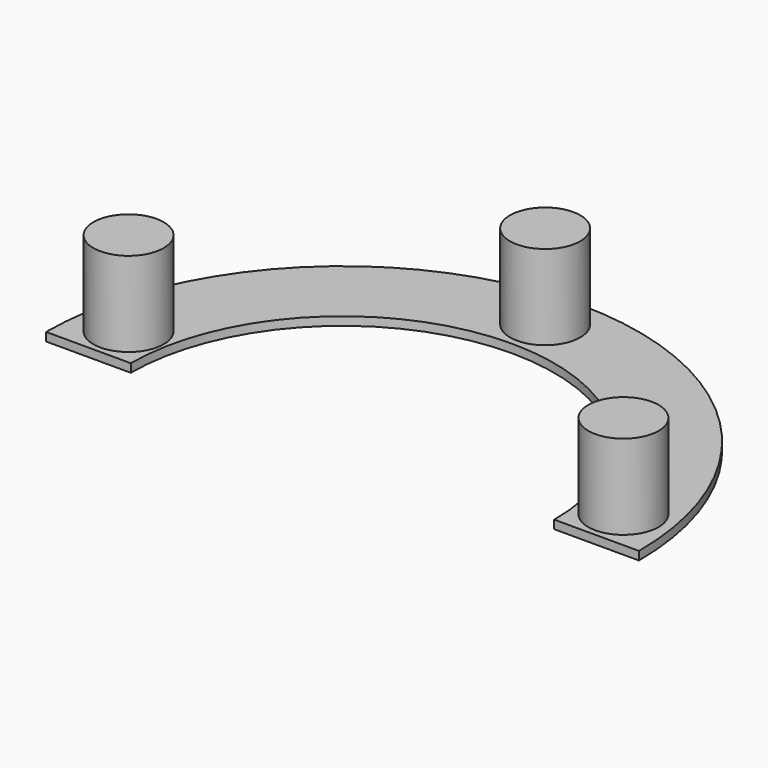
from build123d import *

# Parameters (mm, degrees)
F1_DEPTH = 2.54
F2_R     = 10.541
F3_DEPTH = 25.4


with BuildPart() as f1:
    # F0 (on Top) → F1 (new body)
    with BuildSketch(Plane.XY):
        with BuildLine():
            Line((63.5, 0), (88.9, 0))
            ThreePointArc((88.9, 0), (0, 88.9), (-88.9, 0))
            Line((-88.9, 0), (-63.5, 0))
            ThreePointArc((-63.5, 0), (0, 63.5), (63.5, 0))
        make_face()
    extrude(amount=F1_DEPTH)

    # F2 (on face) → F3 (join)
    with BuildSketch(Plane.XY.offset(2.54)):
        with Locations((0, 75.959727)):
            Circle(F2_R)
        with Locations((-74.016793, 12.313276)):
            Circle(F2_R)
        with Locations((74.406557, 12.313276)):
            Circle(F2_R)
    extrude(amount=F3_DEPTH)


solid = f1.part
